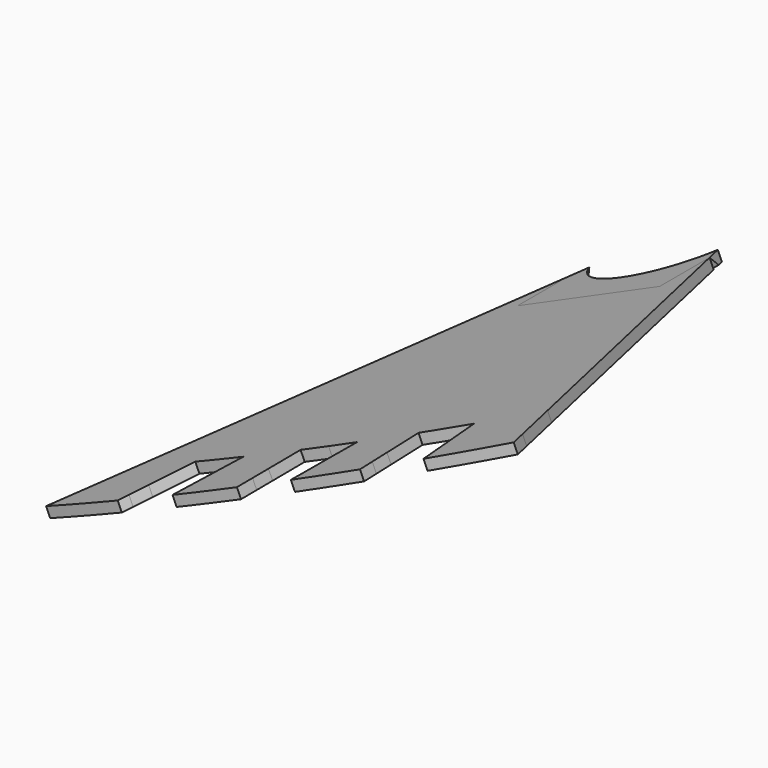
from build123d import *

# Parameters (mm, degrees)
F0_R      = 44.45
F1_DEPTH  = 254
F4_DEPTH  = 25.4
F5_DEPTH  = 25.4
F6_DEPTH  = 254
F8_DEPTH  = 6.35
F10_DEPTH = 6.35
F12_DEPTH = 6.35


with BuildPart() as f1:
    # F0 (on Top) → F1 (new body)
    with BuildSketch(Plane.XY):
        Circle(F0_R)
    extrude(amount=F1_DEPTH)

    # F3 (on offset) → F4 (join)
    with BuildSketch(Plane.XZ.offset(44.45)):
        Polygon((-44.45, 136.1308991909), (-44.45, 129.1799588224), (44.45, 168.7607889463), (44.45, 175.7117293148), align=None)
    extrude(amount=-F4_DEPTH)

    # F5 (add): a face of the model
    f5_faces = [f1.faces().sort_by_distance(p)[0] for p in [
        (0, -44.45, 152.4458440686),
    ]]
    extrude(f5_faces, amount=F5_DEPTH)

    # F6 (cut): a face of the model
    f6_faces = [f1.faces().sort_by_distance(p)[0] for p in [
        (0, 0, 254),
    ]]
    extrude(f6_faces, amount=-F6_DEPTH, mode=Mode.SUBTRACT)

    # F9 (on face) → F10 (cut)
    with BuildSketch(Plane(origin=(-57.9360589343, 0, 130.1265189016), x_dir=(0.9135454576, 0, 0.4067366431), z_dir=(-0.4067366431, 0, 0.9135454576))):
        Polygon((14.7623293636, -30.8631713137), (19.4573050542, -19.05), (22.8378735483, -15.4172629118), (-1.8812613562, -15.4172629118), (4.7252961137, -56.1176563369), align=None)
    extrude(amount=-F10_DEPTH, mode=Mode.SUBTRACT)

    # F11 (on face) → F12 (cut)
    with BuildSketch(Plane(origin=(-57.9360589343, 0, 130.1265189016), x_dir=(0.9135454576, 0, 0.4067366431), z_dir=(-0.4067366431, 0, 0.9135454576))):
        Polygon((107.3805188322, -7.569919806), (107.3805188322, -19.05), (112.0754945228, -30.8631713137), (116.4021759315, -41.7496661689), (130.1503181458, -10.120306164), align=None)
    extrude(amount=-F12_DEPTH, mode=Mode.SUBTRACT)


with BuildPart() as f8:
    # F7 (on face) → F8 (new body)
    with BuildSketch(Plane(origin=(-57.9360589343, 0, 130.1265189016), x_dir=(0.9135454576, 0, 0.4067366431), z_dir=(-0.4067366431, 0, 0.9135454576))):
        with BuildLine():
            Line((112.0754945228, -69.85), (63.4189119432, -69.85))
            Line((63.4189119432, -69.85), (63.4189119432, -273.05))
            ThreePointArc((63.4189119432, -273.05), (73.0497599715, -273.0018945868), (82.6796468911, -272.8575831478))
            ThreePointArc((82.6796468911, -272.8575831478), (102.9913126824, -272.2375027613), (123.2853969647, -271.1894521687))
            ThreePointArc((123.2853969647, -271.1894521687), (141.0786911629, -269.9170563468), (158.8453969647, -268.3156586744))
            ThreePointArc((158.8453969647, -268.3156586744), (181.566308316, -265.7832168467), (204.2207833172, -262.7127385999))
            Line((204.2207833172, -262.7127385999), (112.0754945228, -30.8631713137))
            Line((112.0754945228, -30.8631713137), (112.0754945228, -69.85))
        make_face()
        with BuildLine():
            Line((63.4189119432, -273.05), (63.4189119432, -69.85))
            Line((63.4189119432, -69.85), (14.7623293636, -69.85))
            Line((14.7623293636, -69.85), (14.7623293636, -30.8631713137))
            Line((14.7623293636, -30.8631713137), (-77.3829594308, -262.7127385999))
            ThreePointArc((-77.3829594308, -262.7127385999), (-54.7284844296, -265.7832168467), (-32.0075730783, -268.3156586744))
            ThreePointArc((-32.0075730783, -268.3156586744), (-14.2986557796, -269.9123844003), (3.4366970323, -271.182244854))
            ThreePointArc((3.4366970323, -271.182244854), (23.7306551151, -272.2327362807), (44.0422461801, -272.8552596191))
            ThreePointArc((44.0422461801, -272.8552596191), (53.7300897765, -273.0013136754), (63.4189119432, -273.05))
        make_face()
        with BuildLine():
            ThreePointArc((-32.0075730783, -268.3156586744), (-54.7284844296, -265.7832168467), (-77.3829594308, -262.7127385999))
            Line((-77.3829594308, -262.7127385999), (-91.5862219642, -298.45))
            Line((-91.5862219642, -298.45), (-37.5527486202, -298.45))
            Line((-37.5527486202, -298.45), (-32.0075730783, -268.3156586744))
        make_face()
        Polygon((-37.5527486202, -298.45), (-91.5862219642, -298.45), (-96.6336550105, -311.15), (-39.8897411106, -311.15), align=None)
        with BuildLine():
            Line((-39.8897411106, -311.15), (-96.6336550105, -311.15))
            ThreePointArc((-96.6336550105, -311.15), (-68.9826239746, -315.1764194064), (-41.2312253973, -318.4400749618))
            Line((-41.2312253973, -318.4400749618), (-39.8897411106, -311.15))
        make_face()
        with BuildLine():
            Line((44.4993785514, -298.45), (44.0422461801, -272.8552596191))
            ThreePointArc((44.0422461801, -272.8552596191), (23.7306551151, -272.2327362807), (3.4366970323, -271.182244854))
            Line((3.4366970323, -271.182244854), (1.1918987261, -298.45))
            Line((1.1918987261, -298.45), (44.4993785514, -298.45))
        make_face()
        Polygon((44.7262056662, -311.15), (44.4993785514, -298.45), (1.1918987261, -298.45), (0.1463803717, -311.15), align=None)
        with BuildLine():
            Line((44.9500311248, -323.6819379349), (44.7262056662, -311.15))
            Line((44.7262056662, -311.15), (0.1463803717, -311.15))
            Line((0.1463803717, -311.15), (-0.7320591448, -321.8204792056))
            ThreePointArc((-0.7320591448, -321.8204792056), (22.0985024655, -323.0084849242), (44.9500311248, -323.6819379349))
        make_face()
        with BuildLine():
            ThreePointArc((123.2853969647, -271.1894521687), (102.9913126824, -272.2375027613), (82.6796468911, -272.8575831478))
            Line((82.6796468911, -272.8575831478), (82.2809116577, -298.45))
            Line((82.2809116577, -298.45), (125.5922322035, -298.45))
            Line((125.5922322035, -298.45), (123.2853969647, -271.1894521687))
        make_face()
        Polygon((125.5922322035, -298.45), (82.2809116577, -298.45), (82.0830429885, -311.15), (126.666928417, -311.15), align=None)
        with BuildLine():
            Line((126.666928417, -311.15), (82.0830429885, -311.15))
            Line((82.0830429885, -311.15), (81.8877927615, -323.6819379349))
            ThreePointArc((81.8877927615, -323.6819379349), (104.7393214209, -323.0084849242), (127.5698830311, -321.8204792056))
            Line((127.5698830311, -321.8204792056), (126.666928417, -311.15))
        make_face()
        with BuildLine():
            Line((218.4240458506, -298.45), (204.2207833172, -262.7127385999))
            ThreePointArc((204.2207833172, -262.7127385999), (181.566308316, -265.7832168467), (158.8453969647, -268.3156586744))
            Line((158.8453969647, -268.3156586744), (164.3905725066, -298.45))
            Line((164.3905725066, -298.45), (218.4240458506, -298.45))
        make_face()
        Polygon((223.4714788969, -311.15), (218.4240458506, -298.45), (164.3905725066, -298.45), (166.727564997, -311.15), align=None)
        with BuildLine():
            ThreePointArc((168.0690492836, -318.4400749618), (195.820447861, -315.1764194064), (223.4714788969, -311.15))
            Line((223.4714788969, -311.15), (166.727564997, -311.15))
            Line((166.727564997, -311.15), (168.0690492836, -318.4400749618))
        make_face()
    extrude(amount=-F8_DEPTH)


solid = Compound([f1.part, f8.part])
